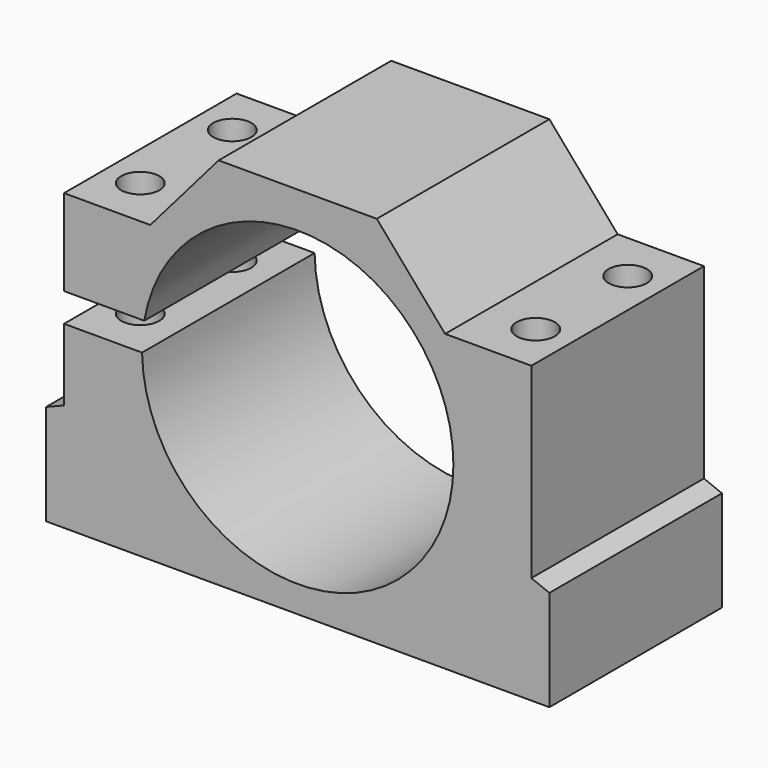
from build123d import *

# Parameters (mm, degrees)
F0_R     = 27.5
F1_DEPTH = 38.1
F2_W     = 19.05
F2_H     = 5.08
F3_DEPTH = 38.1
F5_D     = 6.7564


with BuildPart() as f1:
    # F0 (on Front) → F1 (new body)
    with BuildSketch(Plane.XZ):
        Polygon((-44.45, 0), (0, 0), (44.45, 0), (44.45, 17.78), (41.275, 19.05), (41.275, 52.07), (26.035, 52.07), (13.97, 66.04), (0, 66.04), (-13.97, 66.04), (-26.035, 52.07), (-41.275, 52.07), (-41.275, 19.05), (-44.45, 17.78), align=None)
        with Locations((0, 32.19)):
            Circle(F0_R, mode=Mode.SUBTRACT)
    extrude(amount=F1_DEPTH)

    # F2 (on face) → F3 (cut, through all)
    with BuildSketch(Plane.XZ.offset(38.1)):
        with Locations((-31.75, 34.29)):
            Rectangle(F2_W, F2_H)
    extrude(amount=-F3_DEPTH, mode=Mode.SUBTRACT)

    # F5 (through all)
    with Locations(Plane.XY.offset(52.07)):
        with Locations((-34.925, -8.89), (-34.925, -29.21), (34.925, -8.89), (34.925, -29.21)):
            Hole(F5_D / 2)


solid = f1.part
